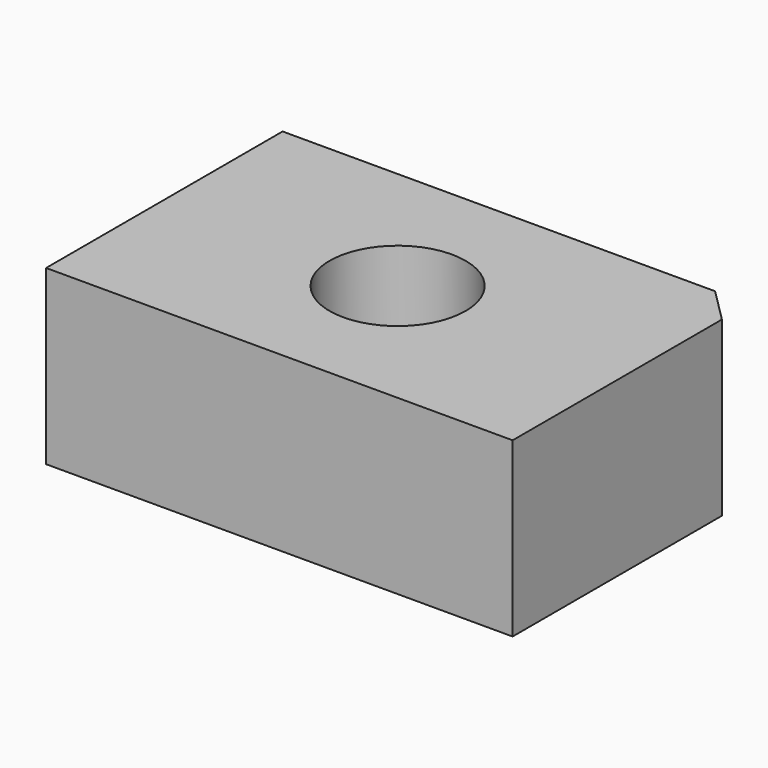
from build123d import *

# Parameters (mm, degrees)
F0_W     = 68.590634
F0_H     = 43.46339
F1_DEPTH = 25.4
F2_D     = 5
F3_R     = 10
F4_DEPTH = 25.401
F5_SIZE  = 5


with BuildPart() as f1:
    # F0 (on Top) → F1 (new body)
    with BuildSketch(Plane.XY):
        Rectangle(F0_W, F0_H)
    extrude(amount=F1_DEPTH)

    # F2 (through all)
    with Locations(Plane(origin=(0, 0, 0), x_dir=(1, 0, 0), z_dir=(0, 0, -1))):
        with Locations((0, 0)):
            Hole(F2_D / 2)

    # F3 (on face) → F4 (cut, through all)
    with BuildSketch(Plane.XY):
        Circle(F3_R)
    extrude(amount=F4_DEPTH, mode=Mode.SUBTRACT)

    # F5
    f5_edges = [f1.edges().sort_by_distance(p)[0] for p in [
        (34.295317, 21.731695, 12.7),
    ]]
    chamfer(f5_edges, length=F5_SIZE)


solid = f1.part
